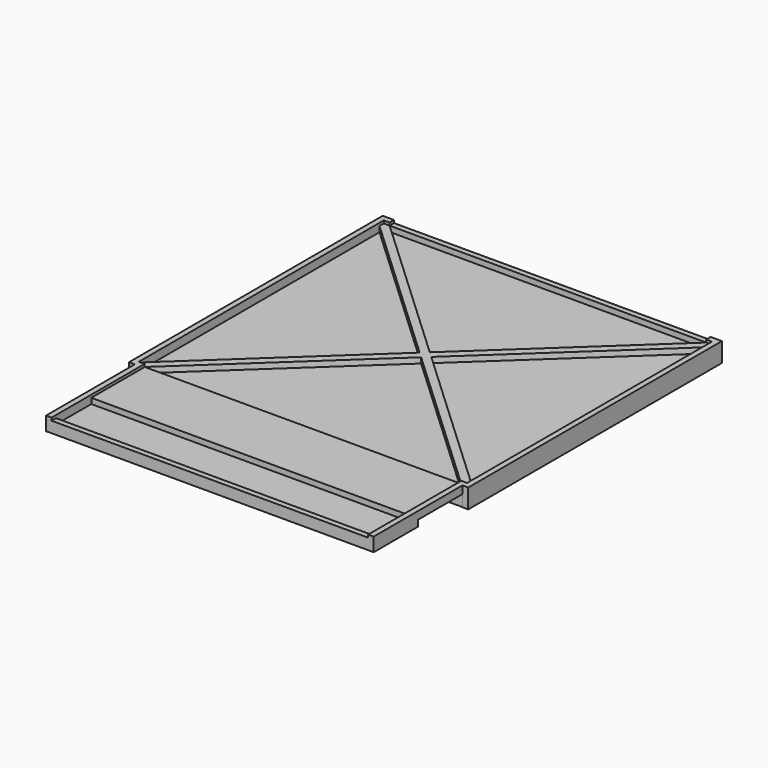
from build123d import *

# Parameters (mm, degrees)
F1_DEPTH  = 2
F3_DEPTH  = 3
F4_W      = 114.8
F4_H      = 24.2
F5_DEPTH  = 2
F7_DEPTH  = 2.2
F8_W      = 114.8
F8_H      = 2
F9_DEPTH  = 1
F10_W     = 114.8
F10_H     = 2
F11_DEPTH = 1
F12_DEPTH = 2


with BuildPart() as f1:
    # F0 (on Top) → F1 (new body)
    with BuildSketch(Plane.XY):
        Polygon((0, 40.2), (0, 0), (118.8, 0), (118.8, 40.2), (120.9, 40.2), (120.9, 155.2), (-2.1, 155.2), (-2.1, 40.2), align=None)
    extrude(amount=F1_DEPTH)

    # F2 (on face) → F3 (join)
    with BuildSketch(Plane.XY.offset(2)):
        Polygon((-2.1, 40.2), (0, 40.2), (0, 0), (118.8, 0), (118.8, 40.2), (120.9, 40.2), (120.9, 155.2), (-2.1, 155.2), align=None)
        Polygon((2, 42.2), (-0.1, 42.2), (-0.1, 153.2), (118.9, 153.2), (118.9, 42.2), (116.8, 42.2), (116.8, 2), (2, 2), align=None, mode=Mode.SUBTRACT)
    extrude(amount=F3_DEPTH)

    # F4 (on face) → F5 (join)
    with BuildSketch(Plane.XY.offset(2)):
        with Locations((59.4, 30.1)):
            Rectangle(F4_W, F4_H)
        Polygon((-0.1, 42.2), (2, 42.2), (59.4, 95.741176), (116.8, 42.2), (118.9, 42.2), (59.4, 97.7), align=None)
        Polygon((59.4, 97.7), (118.9, 42.2), (118.9, 44.158265), (61.499401, 97.7), (118.9, 151.241735), (118.9, 153.2), align=None)
        Polygon((-0.1, 153.2), (59.4, 97.7), (118.9, 153.2), (116.800599, 153.2), (59.4, 99.658265), (1.999401, 153.2), align=None)
        Polygon((-0.1, 44.158265), (-0.1, 42.2), (59.4, 97.7), (-0.1, 153.2), (-0.1, 151.241735), (57.300599, 97.7), align=None)
    extrude(amount=F5_DEPTH)

    # F6 (on face) → F7 (cut)
    with BuildSketch(Plane(origin=(0, 0, 0), x_dir=(1, 0, 0), z_dir=(0, 0, -1))):
        Polygon((0, -40.3), (118.8, -40.3), (118.8, -40.2), (118.8, -20.1), (0, -20.1), (0, -40.2), align=None)
    extrude(amount=-F7_DEPTH, mode=Mode.SUBTRACT)

    # F8 (on face) → F9 (cut)
    with BuildSketch(Plane.XY.offset(5)):
        with Locations((59.4, 1)):
            Rectangle(F8_W, F8_H)
    extrude(amount=-F9_DEPTH, mode=Mode.SUBTRACT)

    # F10 (on face) → F11 (cut)
    with BuildSketch(Plane.XY.offset(5)):
        with Locations((59.4, 154.2)):
            Rectangle(F10_W, F10_H)
    extrude(amount=-F11_DEPTH, mode=Mode.SUBTRACT)

    # F7_face (on face) → F12 (join)
    with BuildSketch(Plane(origin=(59.4, 97.748291, 0), x_dir=(1, 0, 0), z_dir=(0, 0, -1))):
        Polygon((-59.4, 57.548291), (-61.5, 57.548291), (-61.5, -57.451709), (61.5, -57.451709), (61.5, 57.548291), (59.4, 57.548291), (59.4, 57.448291), (-59.4, 57.448291), align=None)
    extrude(amount=F12_DEPTH)


solid = f1.part
